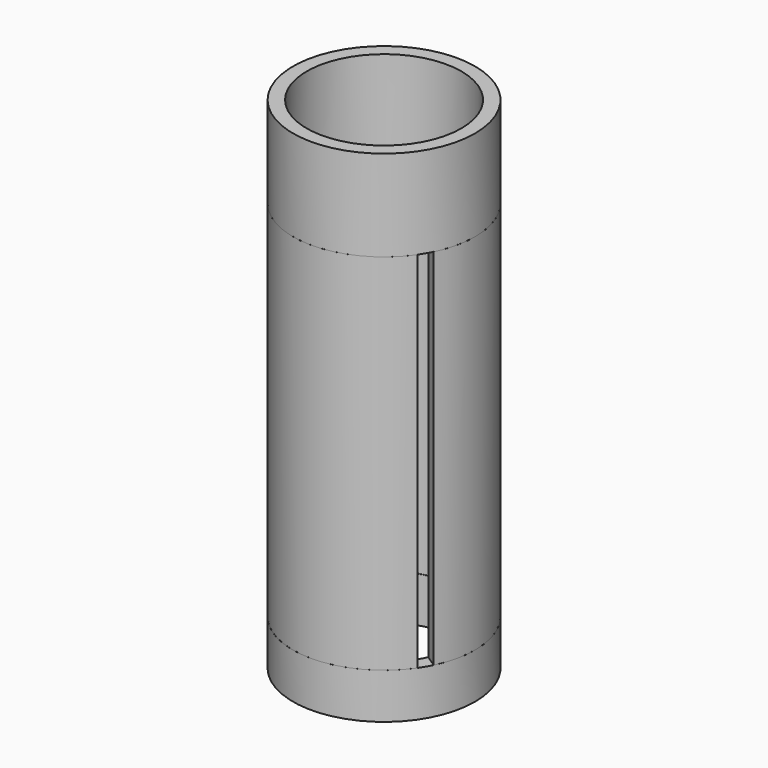
from build123d import *

# Parameters (mm, degrees)
F1_DEPTH = 800
F2_R     = 200
F2_R_2   = 170
F3_DEPTH = 200
F4_R     = 200.041422
F4_R_2   = 169.343147
F5_DEPTH = 100


with BuildPart() as f1:
    # F0 (on Top) → F1 (new body)
    with BuildSketch(Plane.XY):
        with BuildLine():
            Line((-16.604789, 169.187118), (-16.604789, 199.309511))
            ThreePointArc((-16.604789, 199.309511), (-173.329602, 99.784013), (-180.696333, -85.725348))
            Line((-180.696333, -85.725348), (-154.13992, -71.699967))
            ThreePointArc((-154.13992, -71.699967), (-147.631588, 84.290653), (-16.604789, 169.187118))
        make_face()
        with BuildLine():
            ThreePointArc((13.393863, 169.471545), (146.702489, 85.897495), (154.3454, -71.256562))
            Line((154.3454, -71.256562), (179.624132, -87.949822))
            ThreePointArc((179.624132, -87.949822), (173.142046, 100.109099), (13.393863, 199.551007))
            Line((13.393863, 199.551007), (13.393863, 169.471545))
        make_face()
        with BuildLine():
            ThreePointArc((139.416456, -97.278219), (0.244351, -169.999824), (-139.136232, -97.6786))
            Line((-139.136232, -97.6786), (-165.840914, -111.789049))
            ThreePointArc((-165.840914, -111.789049), (-1.234696, -199.996189), (164.448044, -113.82812))
            Line((164.448044, -113.82812), (139.416456, -97.278219))
        make_face()
    extrude(amount=F1_DEPTH)


with BuildPart() as f3:
    # F2 (on face) → F3 (new body)
    with BuildSketch(Plane.XY.offset(800)):
        Circle(F2_R)
        Circle(F2_R_2, mode=Mode.SUBTRACT)
    extrude(amount=F3_DEPTH)


with BuildPart() as f5:
    # F4 (on face) → F5 (new body)
    with BuildSketch(Plane(origin=(0, 0, 0), x_dir=(1, 0, 0), z_dir=(0, 0, -1))):
        Circle(F4_R)
        Circle(F4_R_2, mode=Mode.SUBTRACT)
    extrude(amount=F5_DEPTH)


solid = Compound([f1.part, f3.part, f5.part])
